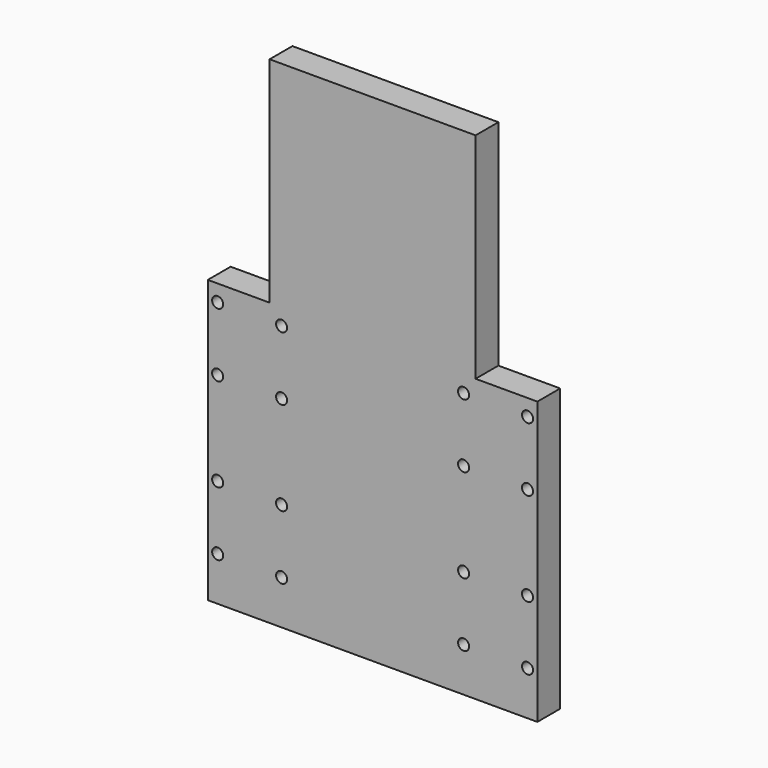
from build123d import *

# Parameters (mm, degrees)
PAD021_DEPTH                    = 11.6
SKETCH027_R                     = 2.25
POCKET001_DEPTH                 = 496.628863
SKETCH027_LINEARPATTERN_2_R     = 2.25
POCKET001_LINEARPATTERN_2_DEPTH = 496.628863
LINEARPATTERN001_COUNT          = 2
LINEARPATTERN001_PITCH          = 64


with BuildPart() as part:
    # Sketch024 → Pad021 (new body)
    with BuildSketch(Plane.XZ):
        Polygon((67, 51.737122), (67, -62.926453), (-67, -62.926453), (-67, 51.737122), (-41.879509, 51.737122), (-41.879509, 138.871582), (41.879509, 138.871582), (41.879509, 51.737122), align=None)
    extrude(amount=PAD021_DEPTH)

    # Sketch027 → Pocket001 (cut, through all)
    with BuildSketch(Plane.XZ):
        with Locations((-63, -19)):
            Circle(SKETCH027_R)
        with Locations((-37, -19)):
            Circle(SKETCH027_R)
        with Locations((-37, -45)):
            Circle(SKETCH027_R)
        with Locations((-63, -45)):
            Circle(SKETCH027_R)
    pocket001 = extrude(amount=POCKET001_DEPTH, mode=Mode.SUBTRACT)

    # Sketch027 LinearPattern 2 → Pocket001 LinearPattern 2 (cut, through all)
    with BuildSketch(Plane(origin=(100, 0, 0), x_dir=(1, 0, 0), z_dir=(0, -1, 0))):
        with Locations((-63, -19)):
            Circle(SKETCH027_LINEARPATTERN_2_R)
        with Locations((-37, -19)):
            Circle(SKETCH027_LINEARPATTERN_2_R)
        with Locations((-37, -45)):
            Circle(SKETCH027_LINEARPATTERN_2_R)
        with Locations((-63, -45)):
            Circle(SKETCH027_LINEARPATTERN_2_R)
    pocket001_linearpattern_2 = extrude(amount=POCKET001_LINEARPATTERN_2_DEPTH, mode=Mode.SUBTRACT)

    # LinearPattern001: Pocket001, Pocket001 LinearPattern 2 ×2
    with Locations(*[(0, 0, i * LINEARPATTERN001_PITCH) for i in range(1, LINEARPATTERN001_COUNT)]):
        add(pocket001, mode=Mode.SUBTRACT)
        add(pocket001_linearpattern_2, mode=Mode.SUBTRACT)


with BuildPart() as part_1:
    # Body019 placement: moved
    add(part.part.moved(Location((0, -67.6, 130))))


solid = part_1.part
